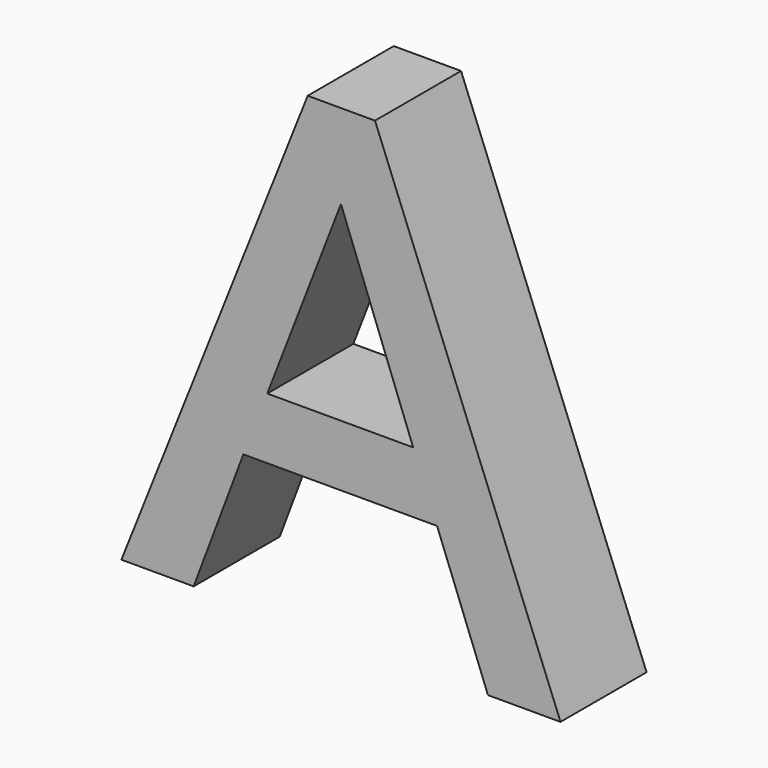
from build123d import *

# Parameters (mm, degrees)
F1_DEPTH = 30
F2_T     = -4
F3_W     = 4
F3_H     = 9.103521
F3_W_2   = 14.7409252822
F3_H_2   = 4.4924728572
F3_W_3   = 15.1106659323
F3_H_3   = 5.4243393242
F4_DEPTH = 26


with BuildPart() as f1:
    # F0 (on Front) → F1 (new body)
    with BuildSketch(Plane.XZ):
        Polygon((61.220897, -65.393597), (9.48831, 65.393596), (-9.284015, 65.393596), (-61.220897, -65.393597), (-41.082074, -65.393597), (-27.221939, -28.472164), (26.799398, -28.472164), (40.987162, -65.393597), align=None)
        Polygon((20.12642, -11.368643), (-20.548961, -11.368643), (-0.001722, 41.825181), align=None, mode=Mode.SUBTRACT)
    extrude(amount=F1_DEPTH)

    # F2
    f2_openings = [f1.faces().sort_by_distance(p)[0] for p in [
        (35.565629, 0, -46.290248),
    ]]
    offset(amount=F2_T, openings=f2_openings, kind=Kind.INTERSECTION)

    # F3 (on face) → F4 (join)
    with BuildSketch(Plane(origin=(0, -26, 0), x_dir=(-1, 0, 0), z_dir=(0, 1, 0))):
        Polygon((-21.9167752835, -15.368643), (-25.9167752835, -15.368643), (-29.5474826178, -24.472164), (-25.5474826178, -24.472164), align=None)
        with Locations((0, -19.9204035)):
            Rectangle(F3_W, F3_H)
        with Locations((-40.1606727391, -36.4461746067)):
            Rectangle(F3_W_2, F3_H_2)
        with Locations((-18.0124370381, 19.4464679807)):
            Rectangle(F3_W_3, F3_H_3)
        Polygon((-5.2106779282, 62.6473037582), (-8.3272252852, 60.1398882418), (-1.5950480919, 51.7722487735), (0, 49.7897122204), (1.5950480919, 51.7722487735), (8.3272252852, 60.1398882418), (5.2106779282, 62.6473037582), (0, 56.1707846416), align=None)
        with Locations((18.0124370381, 19.4464679807)):
            Rectangle(F3_W_3, F3_H_3)
        with Locations((40.1606727391, -36.4461746067)):
            Rectangle(F3_W_2, F3_H_2)
        Polygon((25.5474826178, -24.472164), (29.5474826178, -24.472164), (25.9167752835, -15.368643), (21.9167752835, -15.368643), align=None)
    extrude(amount=F4_DEPTH)


solid = f1.part
